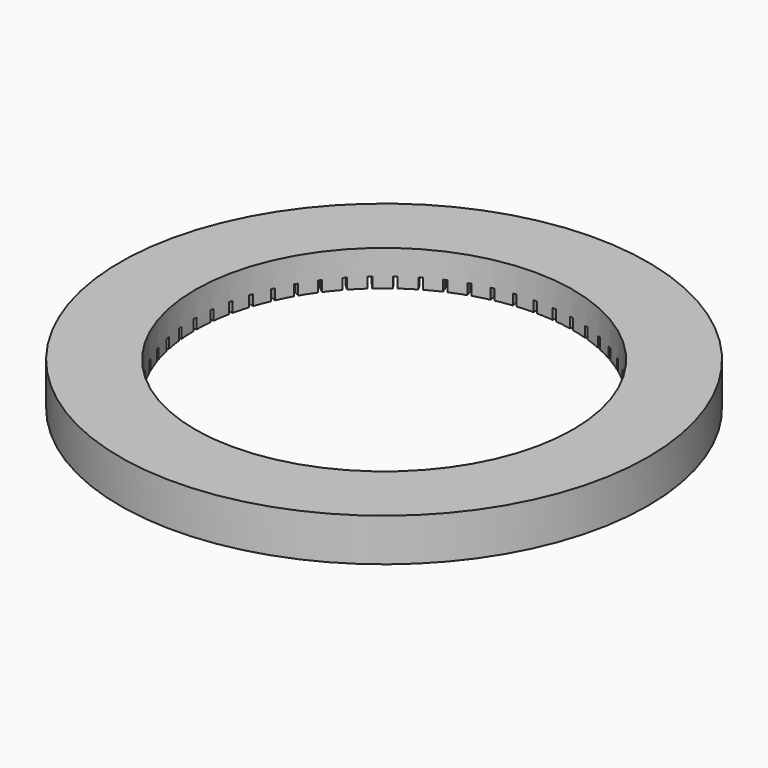
from build123d import *

# Parameters (mm, degrees)
SKETCH_R           = 74
SKETCH_R_2         = 53
PAD_DEPTH          = 12
SKETCH001_R        = 69
SKETCH001_R_2      = 55
POCKET_DEPTH       = 8
SKETCH002_W        = 1
SKETCH002_H        = 5
POCKET001_DEPTH    = 5
POLARPATTERN_COUNT = 60
SKETCH003_R        = 72.6
POCKET002_DEPTH    = 2


with BuildPart() as part:
    # Sketch → Pad (new body)
    with BuildSketch(Plane.XY):
        Circle(SKETCH_R)
        Circle(SKETCH_R_2, mode=Mode.SUBTRACT)
    extrude(amount=PAD_DEPTH)

    # Sketch001 → Pocket (cut)
    with BuildSketch(Plane.XY):
        Circle(SKETCH001_R)
        Circle(SKETCH001_R_2, mode=Mode.SUBTRACT)
    extrude(amount=POCKET_DEPTH, mode=Mode.SUBTRACT)

    # Sketch002 → Pocket001 (cut)
    with BuildSketch(Plane.XY):
        with Locations((0, 53.497549)):
            Rectangle(SKETCH002_W, SKETCH002_H)
    pocket001 = extrude(amount=POCKET001_DEPTH, mode=Mode.SUBTRACT)

    # PolarPattern: Pocket001 ×60 about axis
    polarpattern_axis = Axis((0, 0, 0), (0, 0, 1))
    for i in range(1, POLARPATTERN_COUNT):
        add(pocket001.rotate(polarpattern_axis, i * 360 / POLARPATTERN_COUNT), mode=Mode.SUBTRACT)

    # Sketch003 → Pocket002 (cut)
    with BuildSketch(Plane.XY):
        Circle(SKETCH003_R)
    extrude(amount=POCKET002_DEPTH, mode=Mode.SUBTRACT)


solid = part.part
